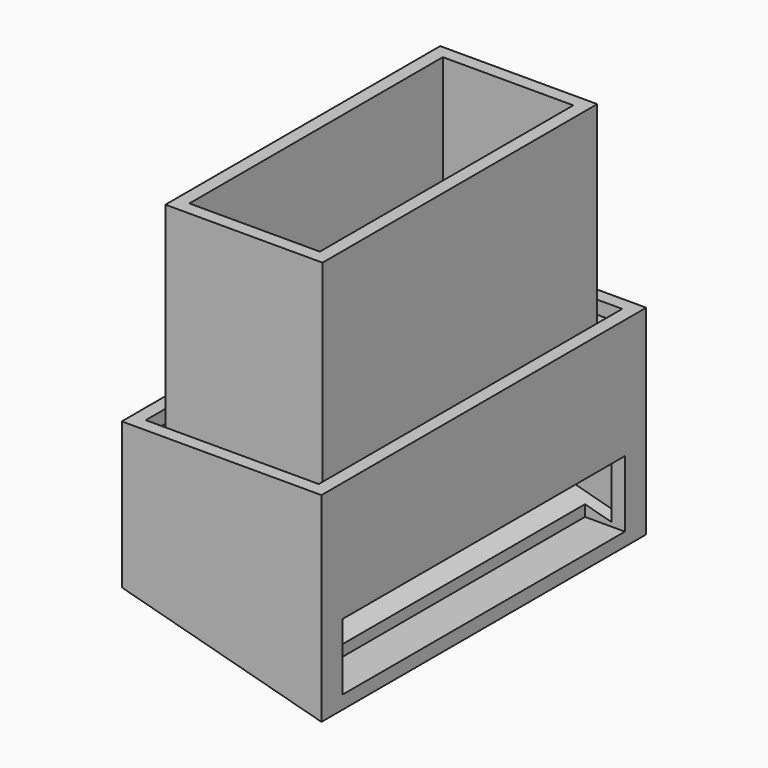
from build123d import *

# Parameters (mm, degrees)
SKETCH061_W        = 11.8
SKETCH061_H        = 25.8
SKETCH061_W_2      = 9.8
SKETCH061_H_2      = 23.8
PAD031_DEPTH       = 15
SKETCH062_W        = 15
SKETCH062_H        = 30.5
SKETCH062_W_2      = 9.8
SKETCH062_H_2      = 23.8
PAD032_DEPTH       = 1
SKETCH063_W        = 15
SKETCH063_H        = 30.5
SKETCH063_W_2      = 13
SKETCH063_H_2      = 28.5
PAD033_DEPTH       = 15
POCKET007016_DEPTH = 30.501
SKETCH065_W        = 15.029142
SKETCH065_H        = 29.5
PAD034_DEPTH       = 1
SKETCH066_W        = 26.5
SKETCH066_H        = 5
POCKET007017_DEPTH = 3


with BuildPart() as part:
    # Sketch061 → Pad031 (new body)
    with BuildSketch(Plane.XY):
        with Locations((-57.65, -16.5)):
            Rectangle(SKETCH061_W, SKETCH061_H)
        with Locations((-57.65, -16.5)):
            Rectangle(SKETCH061_W_2, SKETCH061_H_2, mode=Mode.SUBTRACT)
    extrude(amount=PAD031_DEPTH)

    # Sketch062 → Pad032 (join)
    with BuildSketch(Plane.XY):
        with Locations((-57.65, -16.25)):
            Rectangle(SKETCH062_W, SKETCH062_H)
        with Locations((-57.65, -16.5)):
            Rectangle(SKETCH062_W_2, SKETCH062_H_2, mode=Mode.SUBTRACT)
    extrude(amount=-PAD032_DEPTH)

    # Sketch063 (on DatumPlane) → Pad033 (join)
    with BuildSketch(Plane(origin=(0, 0, 1), x_dir=(-1, 0, 0), z_dir=(0, 0, -1))):
        with Locations((57.65, -16.25)):
            Rectangle(SKETCH063_W, SKETCH063_H)
        with Locations((57.65, -16.25)):
            Rectangle(SKETCH063_W_2, SKETCH063_H_2, mode=Mode.SUBTRACT)
    extrude(amount=PAD033_DEPTH)

    # Sketch064 (on DatumPlane) → Pocket007016 (cut, through all)
    with BuildSketch(Plane(origin=(-65.15, -31.5, 1), x_dir=(1, 0, 0), z_dir=(0, -1, 0))):
        Polygon((15, -15), (0, -10.980762), (0, -15), align=None)
    extrude(amount=-POCKET007016_DEPTH, mode=Mode.SUBTRACT)

    # Sketch065 (on Face37 of Pocket007016) → Pad034 (join)
    with BuildSketch(Plane(origin=(-6.859413, 0, -25.599678), x_dir=(0.965926, 0, -0.258819), z_dir=(-0.258819, 0, -0.965926))):
        with Locations((-52.832285, 15.75)):
            Rectangle(SKETCH065_W, SKETCH065_H)
    extrude(amount=-PAD034_DEPTH)

    # Sketch066 (on Face36 of Pad034) → Pocket007017 (cut)
    with BuildSketch(Plane.YZ.offset(-50.15)):
        with Locations((-16.25, -10.5)):
            Rectangle(SKETCH066_W, SKETCH066_H)
    extrude(amount=-POCKET007017_DEPTH, mode=Mode.SUBTRACT)


with BuildPart() as part_1:
    # Body004 placement: moved
    add(part.part.moved(Location((0, -32, -16.75))))


solid = part_1.part
